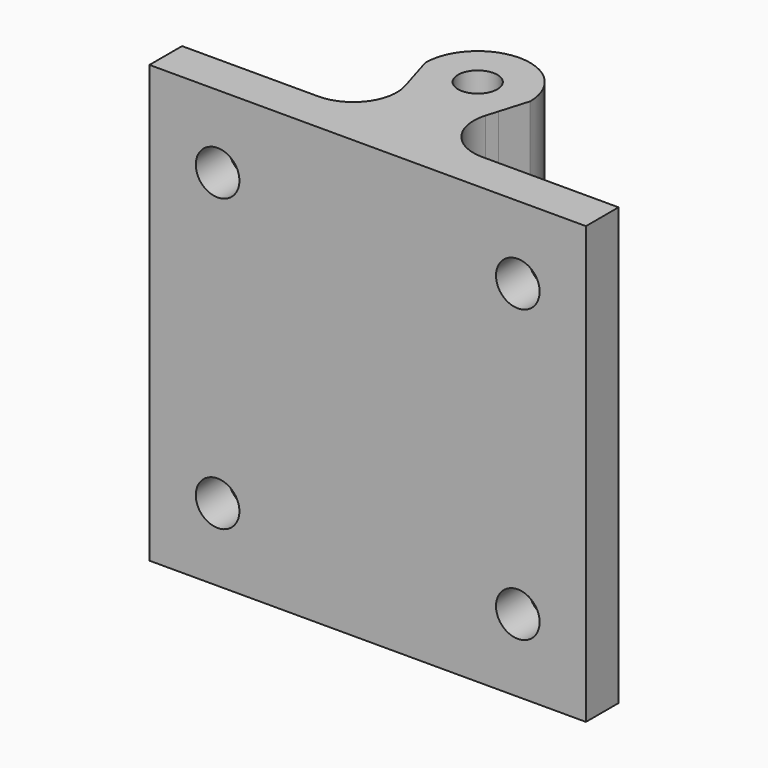
from build123d import *

# Parameters (mm, degrees)
F0_R     = 1.35
F1_DEPTH = 30
F2_R     = 3
F3_R     = 1.5
F4_DEPTH = 25


with BuildPart() as f1:
    # F0 (on Top) → F1 (new body)
    with BuildSketch(Plane.XY):
        with BuildLine():
            ThreePointArc((-3.0028277119, 7.4646546511), (0, 5.85036), (3.0028277119, 7.4646546511))
            Line((3.0028277119, 7.4646546511), (3.6, 9.45036))
            ThreePointArc((3.6, 9.45036), (0, 13.05036), (-3.6, 9.45036))
            Line((-3.6, 9.45036), (-3.0028277119, 7.4646546511))
        make_face()
        with Locations((0, 9.45036)):
            Circle(F0_R, mode=Mode.SUBTRACT)
        with BuildLine():
            Line((-1.6, 2.8), (1.6, 2.8))
            Line((1.6, 2.8), (3.0028277119, 7.4646546511))
            ThreePointArc((3.0028277119, 7.4646546511), (0, 5.85036), (-3.0028277119, 7.4646546511))
            Line((-3.0028277119, 7.4646546511), (-1.6, 2.8))
        make_face()
        Polygon((-15, 0), (15, 0), (15, 2.8), (1.6, 2.8), (-1.6, 2.8), (-15, 2.8), align=None)
    extrude(amount=F1_DEPTH)

    # F2
    f2_edges = [f1.edges().sort_by_distance(p)[0] for p in [
        (-1.6, 2.8, 15),
        (1.6, 2.8, 15),
    ]]
    fillet(f2_edges, radius=F2_R)

    # F3 (on face) → F4 (cut)
    with BuildSketch(Plane(origin=(0, 2.8, 0), x_dir=(-1, 0, 0), z_dir=(0, 1, 0))):
        with Locations((-10.3174667911, 25)):
            Circle(F3_R)
        with Locations((-10.3174667911, 5)):
            Circle(F3_R)
        with Locations((10.31747, 5)):
            Circle(F3_R)
        with Locations((10.31747, 25)):
            Circle(F3_R)
    extrude(amount=-F4_DEPTH, mode=Mode.SUBTRACT)


solid = f1.part
